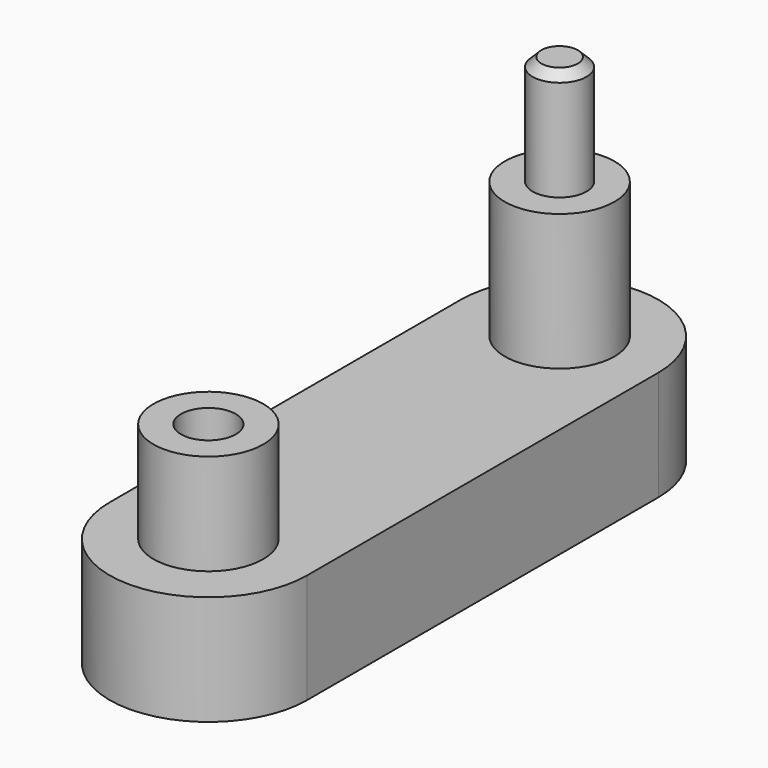
from build123d import *

# Parameters (mm, degrees)
F1_DEPTH  = 6.35
F2_R      = 3.175
F3_DEPTH  = 7.874
F4_R      = 1.5621
F5_DEPTH  = 6.35
F6_SIZE   = 0.508
F7_R      = 3.175
F8_DEPTH  = 5.842
F9_R      = 1.5875
F10_DEPTH = 12.193
F11_R     = 3.81
F12_DEPTH = 5.08


with BuildPart() as f1:
    # F0 (on Top) → F1 (new body)
    with BuildSketch(Plane.XY):
        with BuildLine():
            ThreePointArc((5.715, 14.162212), (0, 19.877212), (-5.715, 14.162212))
            Line((-5.715, 14.162212), (-5.715, -11.231923))
            ThreePointArc((-5.715, -11.231923), (0, -16.946923), (5.715, -11.231923))
            Line((5.715, -11.231923), (5.715, 14.162212))
        make_face()
    extrude(amount=F1_DEPTH)

    # F2 (on face) → F3 (join)
    with BuildSketch(Plane.XY.offset(6.35)):
        with Locations((0, 14.162212)):
            Circle(F2_R)
    extrude(amount=F3_DEPTH)

    # F4 (on face) → F5 (join)
    with BuildSketch(Plane.XY.offset(14.224)):
        with Locations((0, 14.162212)):
            Circle(F4_R)
    extrude(amount=F5_DEPTH)

    # F6
    f6_edges = [f1.edges().sort_by_distance(p)[0] for p in [
        (-1.5621, 14.162212, 20.574),
    ]]
    chamfer(f6_edges, length=F6_SIZE)

    # F7 (on face) → F8 (join)
    with BuildSketch(Plane.XY.offset(6.35)):
        with Locations((0, -11.231923)):
            Circle(F7_R)
    extrude(amount=F8_DEPTH)

    # F9 (on face) → F10 (cut, through all)
    with BuildSketch(Plane.XY.offset(12.192)):
        with Locations((0, -11.231923)):
            Circle(F9_R)
    extrude(amount=-F10_DEPTH, mode=Mode.SUBTRACT)

    # F11 (on face) → F12 (cut)
    with BuildSketch(Plane(origin=(0, 0, 0), x_dir=(1, 0, 0), z_dir=(0, 0, -1))):
        with Locations((0, 11.231923)):
            Circle(F11_R)
    extrude(amount=-F12_DEPTH, mode=Mode.SUBTRACT)


solid = f1.part
